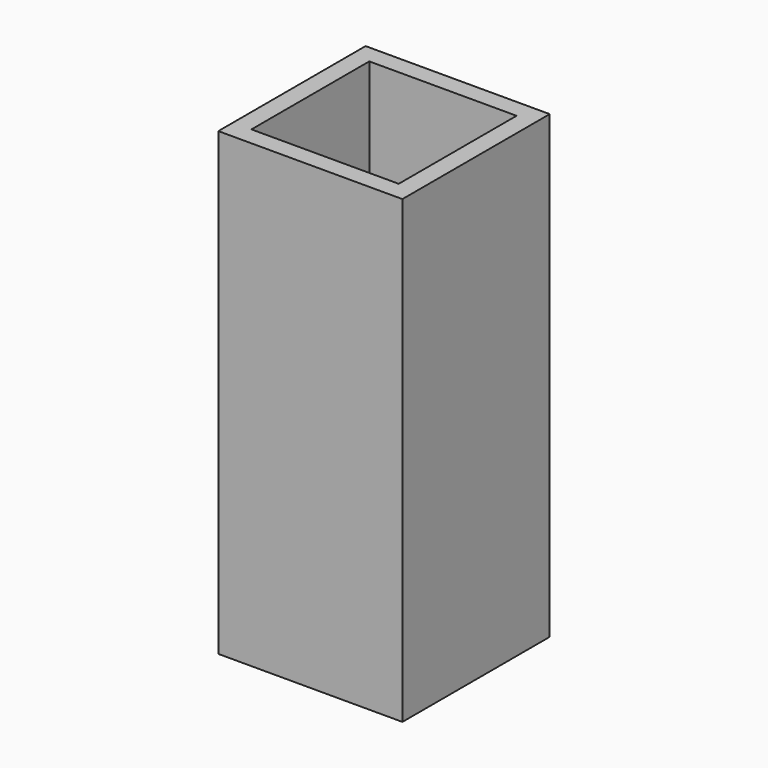
from build123d import *

# Parameters (mm, degrees)
F0_W     = 60
F0_H     = 60
F1_DEPTH = 150
F2_W     = 48
F2_H     = 48
F3_DEPTH = 150


with BuildPart() as f1:
    # F0 (on Top) → F1 (new body)
    with BuildSketch(Plane.XY):
        Rectangle(F0_W, F0_H)
    extrude(amount=F1_DEPTH)

    # F2 (on Top) → F3 (cut)
    with BuildSketch(Plane.XY):
        Rectangle(F2_W, F2_H)
    extrude(amount=F3_DEPTH, mode=Mode.SUBTRACT)


solid = f1.part
